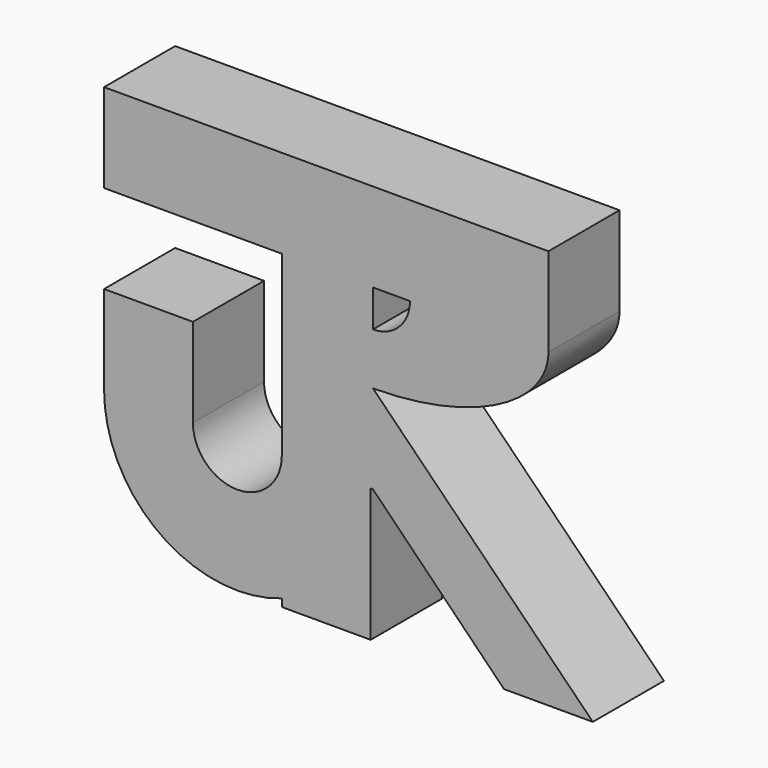
from build123d import *

# Parameters (mm, degrees)
F0_W     = 50.8
F0_H     = 25.4
F1_DEPTH = 25.4


with BuildPart() as f1:
    # F0 (on Front) → F1 (new body)
    with BuildSketch(Plane.XZ):
        with BuildLine():
            Line((0, 14.8166309386), (0, 25.4))
            Line((0, 25.4), (-0.6517106771, 25.4))
            Line((-0.6517106771, 25.4), (-0.6517106771, 0.0021449614))
            add(Edge.make_bspline(
                [(-0.6517106771, 0.0021449614), (-0.325869098, 0), (0, 0)],
                knots=[4.6993929434, 4.6993929434, 4.6993929434, 4.7123889804, 4.7123889804, 4.7123889804], degree=2, weights=[1, 0.999978888, 1]))
            Line((0, 0), (0, 14.8166309386))
        make_face()
        with BuildLine():
            Line((-0.6517106771, 25.4), (0, 25.4))
            Line((0, 25.4), (10.5833690614, 25.4))
            Line((10.5833690614, 25.4), (50.1482893229, 25.4))
            add(Edge.make_bspline(
                [(50.1482893229, 25.4), (50.1482893229, 50.8), (0, 50.8)],
                knots=[0, 0, 0, 1.5707963268, 1.5707963268, 1.5707963268], degree=2, weights=[1, 0.7071067812, 1]))
            add(Edge.make_bspline(
                [(0, 50.8), (-0.325869098, 50.8), (-0.6517106771, 50.7978550386)],
                knots=[1.5707963268, 1.5707963268, 1.5707963268, 1.5837923638, 1.5837923638, 1.5837923638], degree=2, weights=[1, 0.999978888, 1]))
            Line((-0.6517106771, 50.7978550386), (-0.6517106771, 25.4))
        make_face()
        with BuildLine():
            ThreePointArc((10.5833690614, 25.4), (7.4835720311, 17.9164279689), (0, 14.8166309386))
            Line((0, 14.8166309386), (0, 0))
            add(Edge.make_bspline(
                [(0, 0), (50.1482893229, 0), (50.1482893229, 25.4)],
                knots=[4.7123889804, 4.7123889804, 4.7123889804, 6.2831853072, 6.2831853072, 6.2831853072], degree=2, weights=[1, 0.7071067812, 1]))
            Line((50.1482893229, 25.4), (10.5833690614, 25.4))
        make_face()
        Polygon((-0.6517106771, 0.0021449614), (-0.6517106771, 25.4), (-26.0517106771, 25.4), (-26.0517106771, -25.4), (-0.6517106771, -25.4), align=None)
        Polygon((-26.0517106771, 25.4), (-0.6517106771, 25.4), (-0.6517106771, 50.7978550386), (-0.6517106771, 50.8), (-26.0517106771, 50.8), align=None)
        with BuildLine():
            Line((62.8482893229, -63.5), (0, 0))
            add(Edge.make_bspline(
                [(-0.6517106771, 0.0021449614), (-0.325869098, 0), (0, 0)],
                knots=[4.6993929434, 4.6993929434, 4.6993929434, 4.7123889804, 4.7123889804, 4.7123889804], degree=2, weights=[1, 0.999978888, 1]))
            Line((-0.6517106771, 0.0021449614), (-0.6517106771, -25.4))
            Line((-0.6517106771, -25.4), (0, -25.4))
            Line((0, -25.4), (37.4482893229, -63.5))
            Line((37.4482893229, -63.5), (50.1482893229, -63.5))
            Line((50.1482893229, -63.5), (62.8482893229, -63.5))
        make_face()
        with Locations((-51.4517106771, 38.1)):
            Rectangle(F0_W, F0_H)
        with BuildLine():
            Line((-0.6517106771, 50.8), (-0.6517106771, 50.7978550386))
            add(Edge.make_bspline(
                [(0, 50.8), (-0.325869098, 50.8), (-0.6517106771, 50.7978550386)],
                knots=[1.5707963268, 1.5707963268, 1.5707963268, 1.5837923638, 1.5837923638, 1.5837923638], degree=2, weights=[1, 0.999978888, 1]))
            Line((0, 50.8), (-0.6517106771, 50.8))
        make_face()
        with BuildLine():
            add(Edge.make_bspline(
                [(50.1482893229, 25.4), (50.1482893229, 50.8), (0, 50.8)],
                knots=[0, 0, 0, 1.5707963268, 1.5707963268, 1.5707963268], degree=2, weights=[1, 0.7071067812, 1]))
            Line((50.1482893229, 25.4), (50.1482893229, 50.8))
            Line((50.1482893229, 50.8), (0, 50.8))
        make_face()
        with BuildLine():
            Line((-26.0517106771, -61.3210244843), (-26.0517106771, -25.4))
            ThreePointArc((-26.0517106771, -25.4), (-38.7517106771, -38.1), (-51.4517106771, -25.4))
            Line((-51.4517106771, -25.4), (-51.4517106771, 0))
            Line((-51.4517106771, 0), (-76.8517106771, 0))
            Line((-76.8517106771, 0), (-76.8517106771, -25.4))
            ThreePointArc((-76.8517106771, -25.4), (-60.7487559333, -56.5085197333), (-26.0517106771, -61.3210244843))
        make_face()
        with BuildLine():
            Line((-0.6517106771, -25.4), (-26.0517106771, -25.4))
            Line((-26.0517106771, -25.4), (-26.0517106771, -61.3210244843))
            ThreePointArc((-26.0517106771, -61.3210244843), (-7.6431909438, -47.3970452561), (-0.6517106771, -25.4))
        make_face()
        with BuildLine():
            Line((-0.6517106771, -63.5), (-0.6517106771, -25.4))
            ThreePointArc((-0.6517106771, -25.4), (-7.6431909438, -47.3970452561), (-26.0517106771, -61.3210244843))
            Line((-26.0517106771, -61.3210244843), (-26.0517106771, -63.5))
            Line((-26.0517106771, -63.5), (-0.6517106771, -63.5))
        make_face()
    extrude(amount=F1_DEPTH)


solid = f1.part
